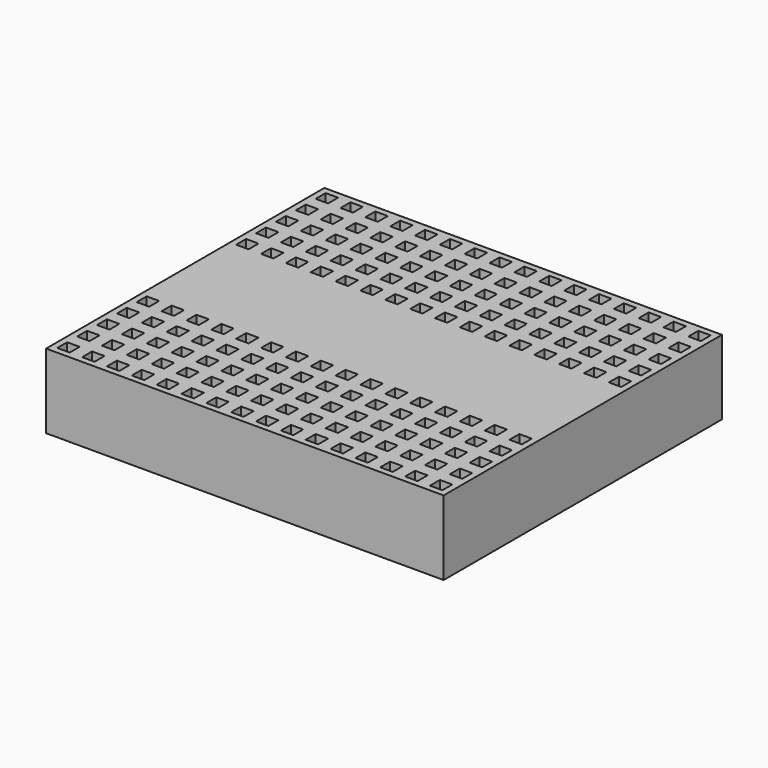
from build123d import *

# Parameters (mm, degrees)
F0_W     = 40.64
F0_H     = 35.56
F1_DEPTH = 7.62
F2_W     = 1.27
F2_H     = 1.27
F3_DEPTH = 6.35


with BuildPart() as f1:
    # F0 (on Top) → F1 (new body)
    with BuildSketch(Plane.XY):
        Rectangle(F0_W, F0_H)
    extrude(amount=F1_DEPTH)

    # F2 (on face) → F3 (cut)
    with BuildSketch(Plane.XY.offset(7.62)):
        with Locations((-19.05, 16.51)):
            Rectangle(F2_W, F2_H)
        with Locations((-19.05, 13.97)):
            Rectangle(F2_W, F2_H)
        with Locations((-19.05, 11.43)):
            Rectangle(F2_W, F2_H)
        with Locations((-19.05, 8.89)):
            Rectangle(F2_W, F2_H)
        with Locations((-19.05, 6.35)):
            Rectangle(F2_W, F2_H)
        with Locations((-16.51, 16.51)):
            Rectangle(F2_W, F2_H)
        with Locations((-16.51, 13.97)):
            Rectangle(F2_W, F2_H)
        with Locations((-16.51, 11.43)):
            Rectangle(F2_W, F2_H)
        with Locations((-16.51, 8.89)):
            Rectangle(F2_W, F2_H)
        with Locations((-16.51, 6.35)):
            Rectangle(F2_W, F2_H)
        with Locations((-13.97, 16.51)):
            Rectangle(F2_W, F2_H)
        with Locations((-13.97, 13.97)):
            Rectangle(F2_W, F2_H)
        with Locations((-13.97, 11.43)):
            Rectangle(F2_W, F2_H)
        with Locations((-13.97, 8.89)):
            Rectangle(F2_W, F2_H)
        with Locations((-13.97, 6.35)):
            Rectangle(F2_W, F2_H)
        with Locations((-11.43, 16.51)):
            Rectangle(F2_W, F2_H)
        with Locations((-11.43, 13.97)):
            Rectangle(F2_W, F2_H)
        with Locations((-11.43, 11.43)):
            Rectangle(F2_W, F2_H)
        with Locations((-11.43, 8.89)):
            Rectangle(F2_W, F2_H)
        with Locations((-11.43, 6.35)):
            Rectangle(F2_W, F2_H)
        with Locations((-8.89, 16.51)):
            Rectangle(F2_W, F2_H)
        with Locations((-8.89, 13.97)):
            Rectangle(F2_W, F2_H)
        with Locations((-8.89, 11.43)):
            Rectangle(F2_W, F2_H)
        with Locations((-8.89, 8.89)):
            Rectangle(F2_W, F2_H)
        with Locations((-8.89, 6.35)):
            Rectangle(F2_W, F2_H)
        with Locations((-6.35, 16.51)):
            Rectangle(F2_W, F2_H)
        with Locations((-6.35, 13.97)):
            Rectangle(F2_W, F2_H)
        with Locations((-6.35, 11.43)):
            Rectangle(F2_W, F2_H)
        with Locations((-6.35, 8.89)):
            Rectangle(F2_W, F2_H)
        with Locations((-6.35, 6.35)):
            Rectangle(F2_W, F2_H)
        with Locations((-3.81, 16.51)):
            Rectangle(F2_W, F2_H)
        with Locations((-3.81, 13.97)):
            Rectangle(F2_W, F2_H)
        with Locations((-3.81, 11.43)):
            Rectangle(F2_W, F2_H)
        with Locations((-3.81, 8.89)):
            Rectangle(F2_W, F2_H)
        with Locations((-3.81, 6.35)):
            Rectangle(F2_W, F2_H)
        with Locations((-1.27, 16.51)):
            Rectangle(F2_W, F2_H)
        with Locations((-1.27, 13.97)):
            Rectangle(F2_W, F2_H)
        with Locations((-1.27, 11.43)):
            Rectangle(F2_W, F2_H)
        with Locations((-1.27, 8.89)):
            Rectangle(F2_W, F2_H)
        with Locations((-1.27, 6.35)):
            Rectangle(F2_W, F2_H)
        with Locations((1.27, 16.51)):
            Rectangle(F2_W, F2_H)
        with Locations((1.27, 13.97)):
            Rectangle(F2_W, F2_H)
        with Locations((1.27, 11.43)):
            Rectangle(F2_W, F2_H)
        with Locations((1.27, 8.89)):
            Rectangle(F2_W, F2_H)
        with Locations((1.27, 6.35)):
            Rectangle(F2_W, F2_H)
        with Locations((3.81, 16.51)):
            Rectangle(F2_W, F2_H)
        with Locations((3.81, 13.97)):
            Rectangle(F2_W, F2_H)
        with Locations((3.81, 11.43)):
            Rectangle(F2_W, F2_H)
        with Locations((3.81, 8.89)):
            Rectangle(F2_W, F2_H)
        with Locations((3.81, 6.35)):
            Rectangle(F2_W, F2_H)
        with Locations((6.35, 16.51)):
            Rectangle(F2_W, F2_H)
        with Locations((6.35, 13.97)):
            Rectangle(F2_W, F2_H)
        with Locations((6.35, 11.43)):
            Rectangle(F2_W, F2_H)
        with Locations((6.35, 8.89)):
            Rectangle(F2_W, F2_H)
        with Locations((6.35, 6.35)):
            Rectangle(F2_W, F2_H)
        with Locations((8.89, 16.51)):
            Rectangle(F2_W, F2_H)
        with Locations((8.89, 13.97)):
            Rectangle(F2_W, F2_H)
        with Locations((8.89, 11.43)):
            Rectangle(F2_W, F2_H)
        with Locations((8.89, 8.89)):
            Rectangle(F2_W, F2_H)
        with Locations((8.89, 6.35)):
            Rectangle(F2_W, F2_H)
        with Locations((11.43, 16.51)):
            Rectangle(F2_W, F2_H)
        with Locations((11.43, 13.97)):
            Rectangle(F2_W, F2_H)
        with Locations((11.43, 11.43)):
            Rectangle(F2_W, F2_H)
        with Locations((11.43, 8.89)):
            Rectangle(F2_W, F2_H)
        with Locations((11.43, 6.35)):
            Rectangle(F2_W, F2_H)
        with Locations((13.97, 16.51)):
            Rectangle(F2_W, F2_H)
        with Locations((13.97, 13.97)):
            Rectangle(F2_W, F2_H)
        with Locations((13.97, 11.43)):
            Rectangle(F2_W, F2_H)
        with Locations((13.97, 8.89)):
            Rectangle(F2_W, F2_H)
        with Locations((13.97, 6.35)):
            Rectangle(F2_W, F2_H)
        with Locations((16.51, 16.51)):
            Rectangle(F2_W, F2_H)
        with Locations((16.51, 13.97)):
            Rectangle(F2_W, F2_H)
        with Locations((16.51, 11.43)):
            Rectangle(F2_W, F2_H)
        with Locations((16.51, 8.89)):
            Rectangle(F2_W, F2_H)
        with Locations((16.51, 6.35)):
            Rectangle(F2_W, F2_H)
        with Locations((19.05, 16.51)):
            Rectangle(F2_W, F2_H)
        with Locations((19.05, 13.97)):
            Rectangle(F2_W, F2_H)
        with Locations((19.05, 11.43)):
            Rectangle(F2_W, F2_H)
        with Locations((19.05, 8.89)):
            Rectangle(F2_W, F2_H)
        with Locations((19.05, 6.35)):
            Rectangle(F2_W, F2_H)
        with Locations((19.05, -6.35)):
            Rectangle(F2_W, F2_H)
        with Locations((19.05, -16.51)):
            Rectangle(F2_W, F2_H)
        with Locations((-16.51, -11.43)):
            Rectangle(F2_W, F2_H)
        with Locations((-8.89, -8.89)):
            Rectangle(F2_W, F2_H)
        with Locations((-11.43, -6.35)):
            Rectangle(F2_W, F2_H)
        with Locations((-11.43, -16.51)):
            Rectangle(F2_W, F2_H)
        with Locations((-13.97, -13.97)):
            Rectangle(F2_W, F2_H)
        with Locations((-1.27, -6.35)):
            Rectangle(F2_W, F2_H)
        with Locations((-1.27, -16.51)):
            Rectangle(F2_W, F2_H)
        with Locations((-3.81, -13.97)):
            Rectangle(F2_W, F2_H)
        with Locations((-6.35, -11.43)):
            Rectangle(F2_W, F2_H)
        with Locations((8.89, -16.51)):
            Rectangle(F2_W, F2_H)
        with Locations((6.35, -13.97)):
            Rectangle(F2_W, F2_H)
        with Locations((3.81, -11.43)):
            Rectangle(F2_W, F2_H)
        with Locations((1.27, -8.89)):
            Rectangle(F2_W, F2_H)
        with Locations((16.51, -13.97)):
            Rectangle(F2_W, F2_H)
        with Locations((13.97, -11.43)):
            Rectangle(F2_W, F2_H)
        with Locations((11.43, -8.89)):
            Rectangle(F2_W, F2_H)
        with Locations((8.89, -6.35)):
            Rectangle(F2_W, F2_H)
        with Locations((-8.89, -6.35)):
            Rectangle(F2_W, F2_H)
        with Locations((-8.89, -16.51)):
            Rectangle(F2_W, F2_H)
        with Locations((-11.43, -13.97)):
            Rectangle(F2_W, F2_H)
        with Locations((-13.97, -11.43)):
            Rectangle(F2_W, F2_H)
        with Locations((1.27, -16.51)):
            Rectangle(F2_W, F2_H)
        with Locations((-1.27, -13.97)):
            Rectangle(F2_W, F2_H)
        with Locations((-3.81, -11.43)):
            Rectangle(F2_W, F2_H)
        with Locations((-6.35, -8.89)):
            Rectangle(F2_W, F2_H)
        with Locations((8.89, -13.97)):
            Rectangle(F2_W, F2_H)
        with Locations((6.35, -11.43)):
            Rectangle(F2_W, F2_H)
        with Locations((3.81, -8.89)):
            Rectangle(F2_W, F2_H)
        with Locations((1.27, -6.35)):
            Rectangle(F2_W, F2_H)
        with Locations((16.51, -11.43)):
            Rectangle(F2_W, F2_H)
        with Locations((13.97, -8.89)):
            Rectangle(F2_W, F2_H)
        with Locations((11.43, -6.35)):
            Rectangle(F2_W, F2_H)
        with Locations((11.43, -16.51)):
            Rectangle(F2_W, F2_H)
        with Locations((19.05, -13.97)):
            Rectangle(F2_W, F2_H)
        with Locations((-16.51, -8.89)):
            Rectangle(F2_W, F2_H)
        with Locations((-19.05, -6.35)):
            Rectangle(F2_W, F2_H)
        with Locations((19.05, -11.43)):
            Rectangle(F2_W, F2_H)
        with Locations((-16.51, -6.35)):
            Rectangle(F2_W, F2_H)
        with Locations((-16.51, -16.51)):
            Rectangle(F2_W, F2_H)
        with Locations((-6.35, -16.51)):
            Rectangle(F2_W, F2_H)
        with Locations((-8.89, -13.97)):
            Rectangle(F2_W, F2_H)
        with Locations((-11.43, -11.43)):
            Rectangle(F2_W, F2_H)
        with Locations((-13.97, -8.89)):
            Rectangle(F2_W, F2_H)
        with Locations((1.27, -13.97)):
            Rectangle(F2_W, F2_H)
        with Locations((-1.27, -11.43)):
            Rectangle(F2_W, F2_H)
        with Locations((-3.81, -8.89)):
            Rectangle(F2_W, F2_H)
        with Locations((-6.35, -6.35)):
            Rectangle(F2_W, F2_H)
        with Locations((8.89, -11.43)):
            Rectangle(F2_W, F2_H)
        with Locations((6.35, -8.89)):
            Rectangle(F2_W, F2_H)
        with Locations((3.81, -6.35)):
            Rectangle(F2_W, F2_H)
        with Locations((3.81, -16.51)):
            Rectangle(F2_W, F2_H)
        with Locations((16.51, -8.89)):
            Rectangle(F2_W, F2_H)
        with Locations((13.97, -6.35)):
            Rectangle(F2_W, F2_H)
        with Locations((13.97, -16.51)):
            Rectangle(F2_W, F2_H)
        with Locations((11.43, -13.97)):
            Rectangle(F2_W, F2_H)
        with Locations((-11.43, -8.89)):
            Rectangle(F2_W, F2_H)
        with Locations((-13.97, -6.35)):
            Rectangle(F2_W, F2_H)
        with Locations((-13.97, -16.51)):
            Rectangle(F2_W, F2_H)
        with Locations((-16.51, -13.97)):
            Rectangle(F2_W, F2_H)
        with Locations((-3.81, -6.35)):
            Rectangle(F2_W, F2_H)
        with Locations((-3.81, -16.51)):
            Rectangle(F2_W, F2_H)
        with Locations((-6.35, -13.97)):
            Rectangle(F2_W, F2_H)
        with Locations((-8.89, -11.43)):
            Rectangle(F2_W, F2_H)
        with Locations((6.35, -16.51)):
            Rectangle(F2_W, F2_H)
        with Locations((3.81, -13.97)):
            Rectangle(F2_W, F2_H)
        with Locations((1.27, -11.43)):
            Rectangle(F2_W, F2_H)
        with Locations((-1.27, -8.89)):
            Rectangle(F2_W, F2_H)
        with Locations((13.97, -13.97)):
            Rectangle(F2_W, F2_H)
        with Locations((11.43, -11.43)):
            Rectangle(F2_W, F2_H)
        with Locations((8.89, -8.89)):
            Rectangle(F2_W, F2_H)
        with Locations((6.35, -6.35)):
            Rectangle(F2_W, F2_H)
        with Locations((19.05, -8.89)):
            Rectangle(F2_W, F2_H)
        with Locations((16.51, -6.35)):
            Rectangle(F2_W, F2_H)
        with Locations((16.51, -16.51)):
            Rectangle(F2_W, F2_H)
        with Locations((-19.05, -8.89)):
            Rectangle(F2_W, F2_H)
        with Locations((-19.05, -16.51)):
            Rectangle(F2_W, F2_H)
        with Locations((-19.05, -13.97)):
            Rectangle(F2_W, F2_H)
        with Locations((-19.05, -11.43)):
            Rectangle(F2_W, F2_H)
    extrude(amount=-F3_DEPTH, mode=Mode.SUBTRACT)


solid = f1.part
